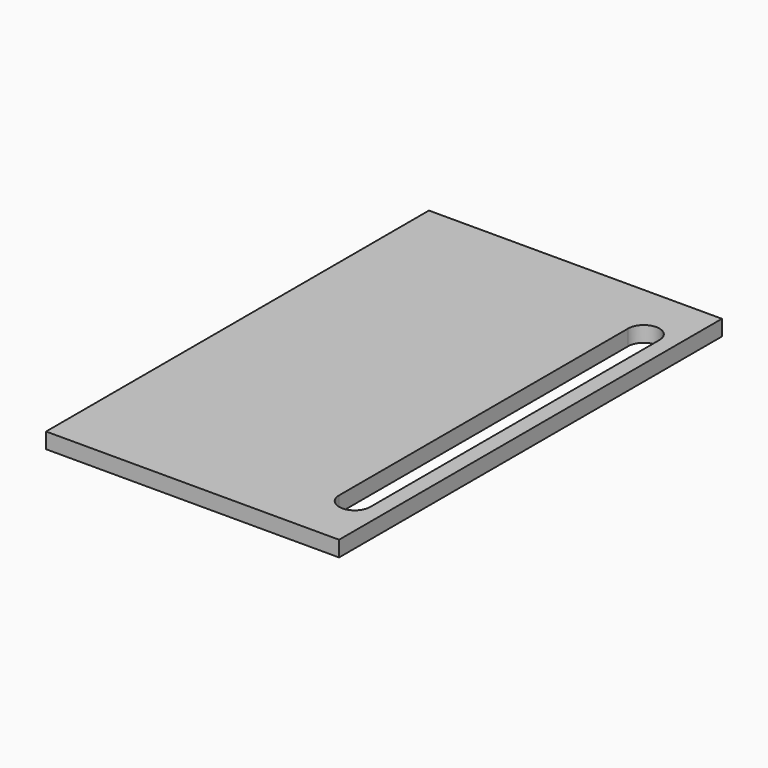
from build123d import *

# Parameters (mm, degrees)
F0_W     = 150
F0_H     = 245
F1_DEPTH = 8


with BuildPart() as f1:
    # F0 (on Top) → F1 (new body)
    with BuildSketch(Plane.XY):
        Rectangle(F0_W, F0_H)
        with BuildLine():
            Line((51, -92.5), (51, 92.5))
            ThreePointArc((51, 92.5), (59, 100.5), (67, 92.5))
            Line((67, 92.5), (67, -92.5))
            ThreePointArc((67, -92.5), (59, -100.5), (51, -92.5))
        make_face(mode=Mode.SUBTRACT)
    extrude(amount=F1_DEPTH)


solid = f1.part
